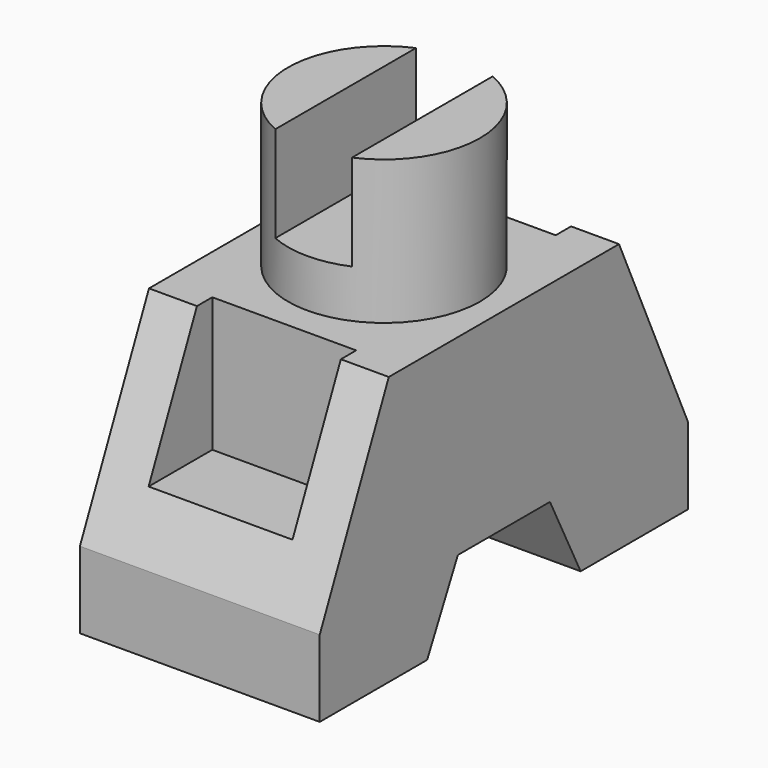
from build123d import *

# Parameters (mm, degrees)
F0_W     = 9
F0_H     = 8
F0_W_2   = 5
F0_H_2   = 18
F0_W_3   = 10
F0_H_3   = 2
F1_DEPTH = 12.5
F2_R     = 10
F3_DEPTH = 15
F5_DEPTH = 10
F6_W     = 15
F6_H     = 8.3
F7_DEPTH = 14


with BuildPart() as f1:
    # F0 (on Right) → F1 (new body, symmetric)
    with BuildSketch(Plane.YZ):
        with Locations((-19.5, -10)):
            Rectangle(F0_W, F0_H)
        Polygon((-15, -6), (-15, -4), (-23.1, -4), (-24, -6), align=None)
        Polygon((-15, -4), (-15, 14), (-23.1, -4), align=None)
        with Locations((-12.5, 5)):
            Rectangle(F0_W_2, F0_H_2)
        with Locations((-7.5, 5)):
            Rectangle(F0_W_2, F0_H_2)
        with Locations((0, 5)):
            Rectangle(F0_W_3, F0_H_2)
        with Locations((7.5, 5)):
            Rectangle(F0_W_2, F0_H_2)
        with Locations((12.5, 5)):
            Rectangle(F0_W_2, F0_H_2)
        Polygon((23.1, -4), (15, 14), (15, -4), align=None)
        Polygon((23.1, -4), (15, -4), (15, -6), (24, -6), align=None)
        with Locations((19.5, -10)):
            Rectangle(F0_W, F0_H)
        with Locations((12.5, -10)):
            Rectangle(F0_W_2, F0_H)
        Polygon((10, -14), (10, -6), (6, -6), align=None)
        with Locations((12.5, -5)):
            Rectangle(F0_W_2, F0_H_3)
        with Locations((0, -5)):
            Rectangle(F0_W_3, F0_H_3)
        Polygon((-5, -6), (-5, -4), (-6, -6), align=None)
        Polygon((6, -6), (5, -4), (5, -6), align=None)
        Polygon((10, -6), (10, -4), (5, -4), (6, -6), align=None)
        Polygon((-6, -6), (-5, -4), (-10, -4), (-10, -6), align=None)
        Polygon((-10, -14), (-6, -6), (-10, -6), align=None)
        with Locations((-12.5, -10)):
            Rectangle(F0_W_2, F0_H)
        with Locations((-12.5, -5)):
            Rectangle(F0_W_2, F0_H_3)
    extrude(amount=F1_DEPTH, both=True)

    # F2 (on face) → F3 (join)
    with BuildSketch(Plane.XY.offset(14)):
        Circle(F2_R)
    extrude(amount=F3_DEPTH)

    # F4 (on face) → F5 (cut)
    with BuildSketch(Plane.XY.offset(29)):
        with BuildLine():
            ThreePointArc((4, 9.1651513899), (2.0430964369, 9.7890631293), (0, 10))
            ThreePointArc((0, 10), (-2.0430964369, 9.7890631293), (-4, 9.1651513899))
            Line((-4, 9.1651513899), (-4, -9.1651513899))
            ThreePointArc((-4, -9.1651513899), (-2.0430964369, -9.7890631293), (0, -10))
            ThreePointArc((0, -10), (2.0430964369, -9.7890631293), (4, -9.1651513899))
            Line((4, -9.1651513899), (4, 9.1651513899))
        make_face()
    extrude(amount=-F5_DEPTH, mode=Mode.SUBTRACT)

    # F6 (on Top) → F7 (cut)
    with BuildSketch(Plane.XY):
        with Locations((0, -17.15)):
            Rectangle(F6_W, F6_H)
        with Locations((0, 17.15)):
            Rectangle(F6_W, F6_H)
    extrude(amount=F7_DEPTH, mode=Mode.SUBTRACT)


solid = f1.part
